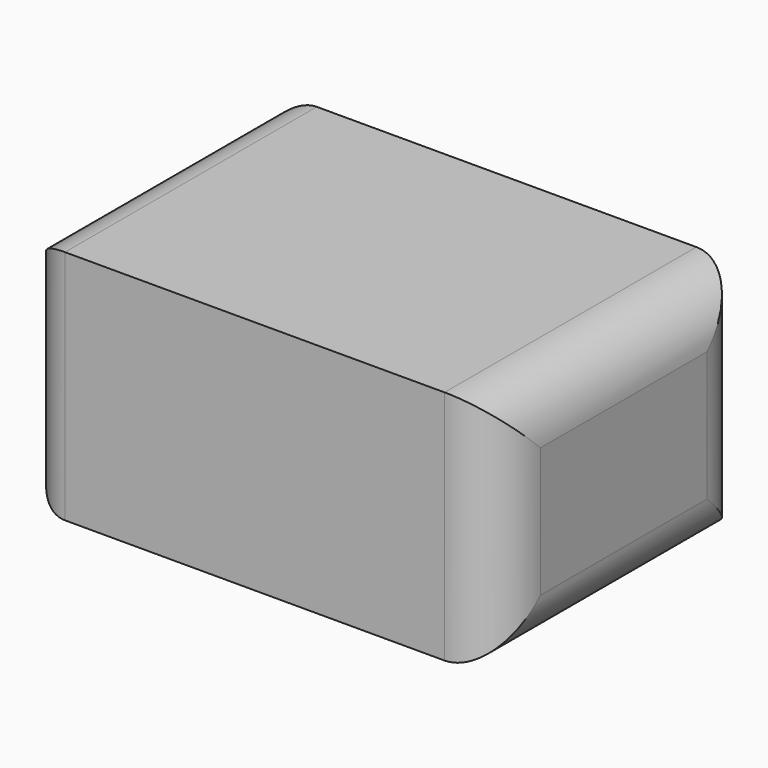
from build123d import *

# Parameters (mm, degrees)
F0_W     = 300
F0_H     = 150
F1_DEPTH = 200
F3_R     = 33.79899
F4_R     = 25


with BuildPart() as f1:
    # F0 (on Front) → F1 (new body)
    with BuildSketch(Plane.XZ):
        with Locations((150, 75)):
            Rectangle(F0_W, F0_H)
    extrude(amount=F1_DEPTH)

    # F3
    f3_edges = [f1.edges().sort_by_distance(p)[0] for p in [
        (300, -100, 150),
        (300, -100, 0),
        (300, 0, 75),
        (300, -200, 75),
    ]]
    fillet(f3_edges, radius=F3_R)

    # F4
    f4_edges = [f1.edges().sort_by_distance(p)[0] for p in [
        (0, -100, 150),
        (0, -100, 0),
        (0, 0, 75),
        (0, -200, 75),
    ]]
    fillet(f4_edges, radius=F4_R)


solid = f1.part
